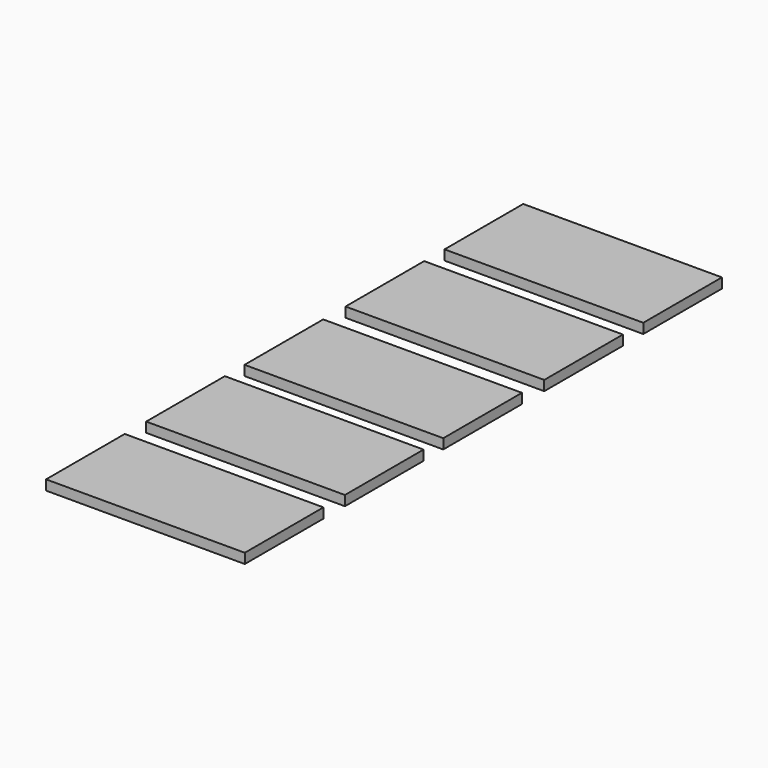
from build123d import *

# Parameters (mm, degrees)
F0_W     = 380
F0_H     = 188
F1_DEPTH = 19
F2_DEPTH = 18


with BuildPart() as f1:
    # F0 (on Top) → F1 (new body)
    with BuildSketch(Plane.XY):
        with Locations((-60.5580484867, 247.1623601913)):
            Rectangle(F0_W, F0_H)
    extrude(amount=F1_DEPTH)

    # F0 (on Top) → F2, piece 2 (join)
    with BuildSketch(Plane.XY):
        with Locations((-60.5580484867, 247.1623601913)):
            Rectangle(F0_W, F0_H)
    extrude(amount=F2_DEPTH)


with BuildPart() as f1b:
    # F0 (on Top) → F1, piece 2 (new body)
    with BuildSketch(Plane.XY):
        with Locations((-60.5580484867, 483.8489773273)):
            Rectangle(F0_W, F0_H)
    extrude(amount=F1_DEPTH)

    # F0 (on Top) → F2 (join)
    with BuildSketch(Plane.XY):
        with Locations((-60.5580484867, 483.8489773273)):
            Rectangle(F0_W, F0_H)
    extrude(amount=F2_DEPTH)


with BuildPart() as f1c:
    # F0 (on Top) → F1, piece 3 (new body)
    with BuildSketch(Plane.XY):
        with Locations((-60.5580484867, 5.7811396718)):
            Rectangle(F0_W, F0_H)
    extrude(amount=F1_DEPTH)

    # F0 (on Top) → F2, piece 3 (join)
    with BuildSketch(Plane.XY):
        with Locations((-60.5580484867, 5.7811396718)):
            Rectangle(F0_W, F0_H)
    extrude(amount=F2_DEPTH)


with BuildPart() as f1d:
    # F0 (on Top) → F1, piece 4 (new body)
    with BuildSketch(Plane.XY):
        with Locations((-60.5580484867, -229.3031630516)):
            Rectangle(F0_W, F0_H)
    extrude(amount=F1_DEPTH)

    # F0 (on Top) → F2, piece 4 (join)
    with BuildSketch(Plane.XY):
        with Locations((-60.5580484867, -229.3031630516)):
            Rectangle(F0_W, F0_H)
    extrude(amount=F2_DEPTH)


with BuildPart() as f1e:
    # F0 (on Top) → F1, piece 5 (new body)
    with BuildSketch(Plane.XY):
        with Locations((-60.5580484867, -468.5854730606)):
            Rectangle(F0_W, F0_H)
    extrude(amount=F1_DEPTH)

    # F0 (on Top) → F2, piece 5 (join)
    with BuildSketch(Plane.XY):
        with Locations((-60.5580484867, -468.5854730606)):
            Rectangle(F0_W, F0_H)
    extrude(amount=F2_DEPTH)


solid = Compound([f1.part, f1b.part, f1c.part, f1d.part, f1e.part])
